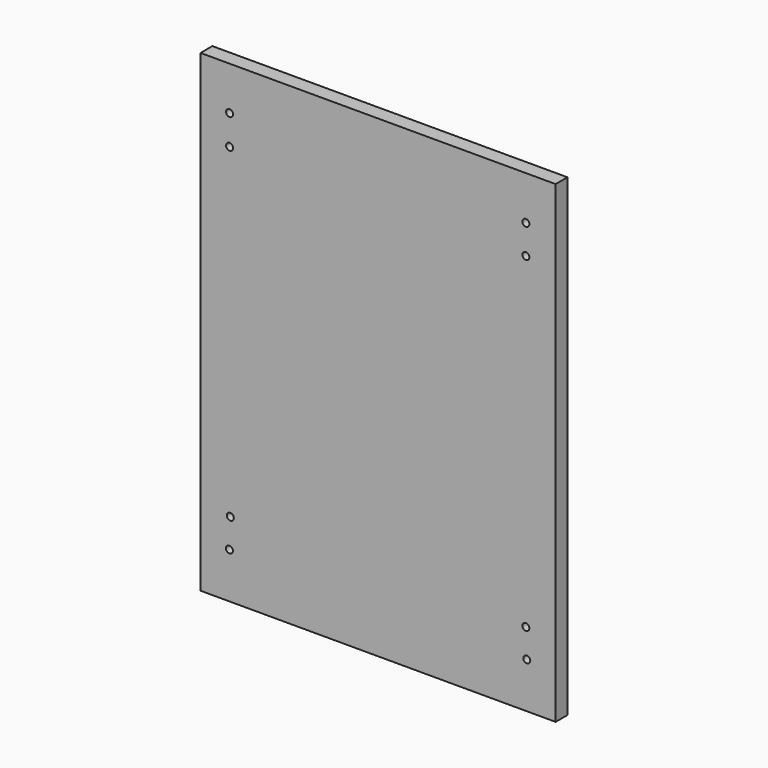
from build123d import *

# Parameters (mm, degrees)
F0_W      = 152.4
F0_H      = 203.2
F1_DEPTH  = 6.35
F2_R      = 1.5
F9_DEPTH  = 50.8
F3_R      = 1.5
F4_R      = 1.5
F10_DEPTH = 127
F6_R      = 1.5
F5_R      = 1.5
F11_DEPTH = 127
F8_R      = 1.5
F7_R      = 1.5
F12_DEPTH = 76.2


with BuildPart() as f1:
    # F0 (on Front) → F1 (new body)
    with BuildSketch(Plane.XZ):
        Rectangle(F0_W, F0_H)
    extrude(amount=F1_DEPTH)

    # F2 (on Front) → F9 (cut)
    with BuildSketch(Plane.XZ):
        with Locations((-63.73252, 82.91246)):
            Circle(F2_R)
        with Locations((-63.73252, 70.183493)):
            Circle(F2_R)
    extrude(amount=F9_DEPTH, mode=Mode.SUBTRACT)

    # F3 (on Front) + F4 (on Front) → F10 (cut)
    with BuildSketch(Plane.XZ):
        with Locations((63.420773, 82.799338)):
            Circle(F3_R)
    with BuildSketch(Plane.XZ):
        with Locations((63.420773, 70.271783)):
            Circle(F4_R)
    extrude(amount=F10_DEPTH, mode=Mode.SUBTRACT)

    # F6 (on Front) + F5 (on Front) → F11 (cut)
    with BuildSketch(Plane.XZ):
        with Locations((-63.420773, -69.488801)):
            Circle(F6_R)
    with BuildSketch(Plane.XZ):
        with Locations((-63.812256, -82.016364)):
            Circle(F5_R)
    extrude(amount=F11_DEPTH, mode=Mode.SUBTRACT)

    # F8 (on Front) + F7 (on Front) → F12 (cut)
    with BuildSketch(Plane.XZ):
        with Locations((63.420773, -69.880292)):
            Circle(F8_R)
    with BuildSketch(Plane.XZ):
        with Locations((63.812256, -82.016364)):
            Circle(F7_R)
    extrude(amount=F12_DEPTH, mode=Mode.SUBTRACT)


solid = f1.part
